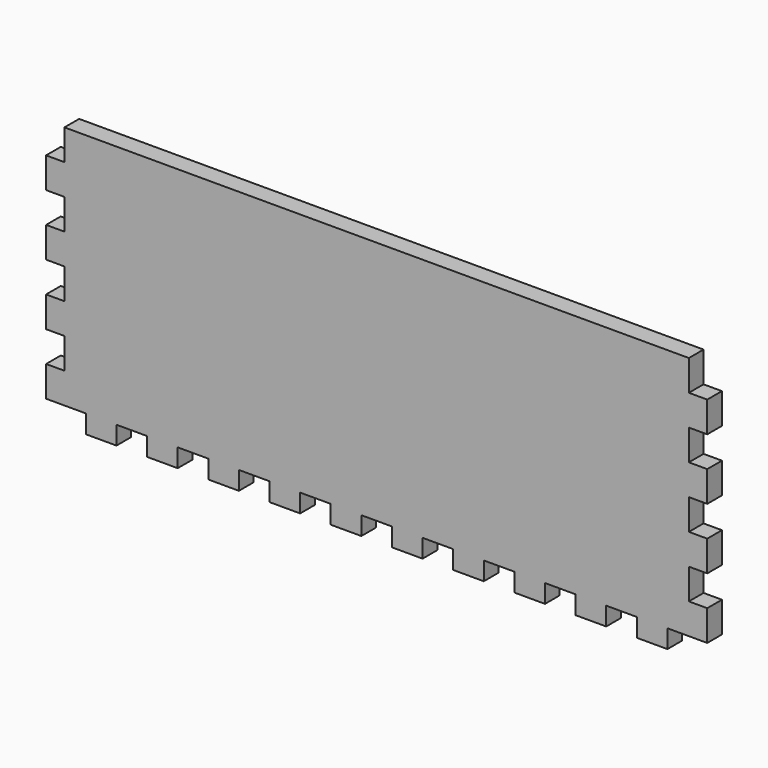
from build123d import *

# Parameters (mm, degrees)
F0_W     = 102
F0_H     = 40
F1_DEPTH = 3
F2_W     = 3
F2_H     = 5
F3_DEPTH = 3
F4_W     = 5
F4_H     = 3
F5_DEPTH = 3


with BuildPart() as f1:
    # F0 (on Front) → F1 (new body)
    with BuildSketch(Plane.XZ):
        Rectangle(F0_W, F0_H)
    extrude(amount=F1_DEPTH)

    # F2 (on face) → F3 (join)
    with BuildSketch(Plane.XZ.offset(3)):
        with Locations((-52.5, -17.5)):
            Rectangle(F2_W, F2_H)
        with Locations((-52.5, -7.5)):
            Rectangle(F2_W, F2_H)
        with Locations((-52.5, 2.5)):
            Rectangle(F2_W, F2_H)
        with Locations((-52.5, 12.5)):
            Rectangle(F2_W, F2_H)
        with Locations((52.5, -7.5)):
            Rectangle(F2_W, F2_H)
        with Locations((52.5, -17.5)):
            Rectangle(F2_W, F2_H)
        with Locations((52.5, 12.5)):
            Rectangle(F2_W, F2_H)
        with Locations((52.5, 2.5)):
            Rectangle(F2_W, F2_H)
    extrude(amount=-F3_DEPTH)

    # F4 (on face) → F5 (join)
    with BuildSketch(Plane.XZ.offset(3)):
        with Locations((5, -21.5)):
            Rectangle(F4_W, F4_H)
        with Locations((15, -21.5)):
            Rectangle(F4_W, F4_H)
        with Locations((25, -21.5)):
            Rectangle(F4_W, F4_H)
        with Locations((35, -21.5)):
            Rectangle(F4_W, F4_H)
        with Locations((45, -21.5)):
            Rectangle(F4_W, F4_H)
        with Locations((-25, -21.5)):
            Rectangle(F4_W, F4_H)
        with Locations((-15, -21.5)):
            Rectangle(F4_W, F4_H)
        with Locations((-5, -21.5)):
            Rectangle(F4_W, F4_H)
        with Locations((-35, -21.5)):
            Rectangle(F4_W, F4_H)
        with Locations((-45, -21.5)):
            Rectangle(F4_W, F4_H)
    extrude(amount=-F5_DEPTH)


solid = f1.part
